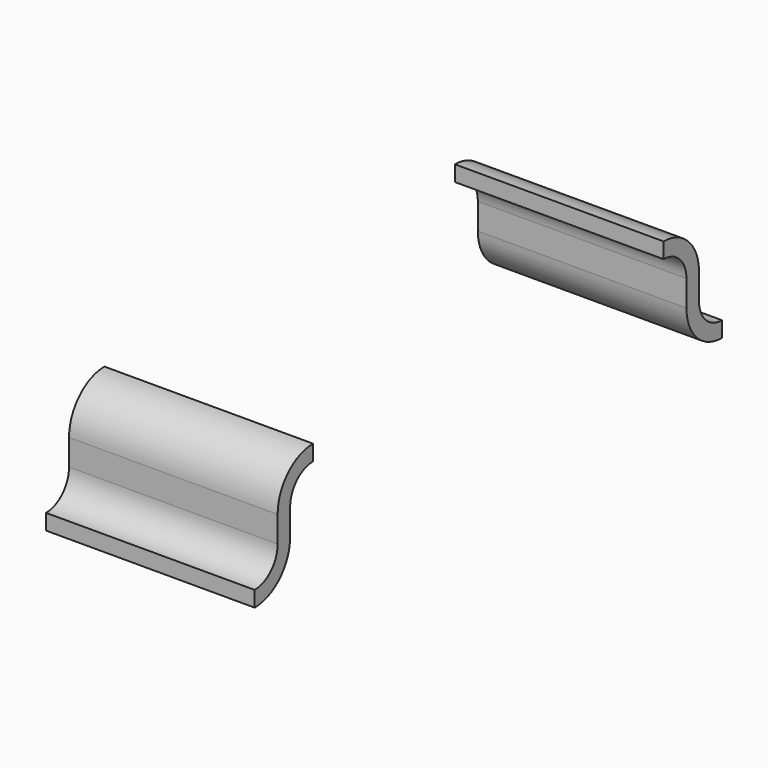
from build123d import *

# Parameters (mm, degrees)
EXTRUDE_DEPTH = 2


with BuildPart() as pin003:
    # Sketch020 → Extrude (new body)
    with BuildSketch(Plane.YZ):
        with BuildLine():
            ThreePointArc((-0.7, 0), (-0.39948, 0.12448), (-0.275, 0.425))
            Line((-0.275, 0.675), (-0.275, 0.425))
            ThreePointArc((0, 0.95), (-0.194454, 0.869454), (-0.275, 0.675))
            Line((0, 1.1), (0, 0.95))
            ThreePointArc((0, 1.1), (-0.30052, 0.97552), (-0.425, 0.675))
            Line((-0.425, 0.675), (-0.425, 0.425))
            ThreePointArc((-0.7, 0.15), (-0.505546, 0.230546), (-0.425, 0.425))
            Line((-0.7, 0.15), (-0.7, 0))
        make_face()
    extrude(amount=EXTRUDE_DEPTH)


with BuildPart() as pin003_1:
    # Extrude placement: moved
    add(pin003.part.moved(Location((0.7, 0, 0))))


with BuildPart() as pin002:
    # Clone011 base: copy of Pin003
    add(pin003_1.part)


with BuildPart() as pin004:
    # Part__Mirroring: instance of Pin002
    add(pin002.part.mirror(Plane(origin=(0, 0, 0), x_dir=(1, 0, 0), z_dir=(0, 1, 0))))


with BuildPart() as pin004_1:
    # Part__Mirroring placement: moved
    add(pin004.part.moved(Location((0, 4.2, 0))))


with BuildPart() as pins006:
    # Fusion028 base: copy of Pin003
    add(pin003_1.part)

    # Fusion028: union Pin004
    add(pin004_1.part)


solid = pins006.part
